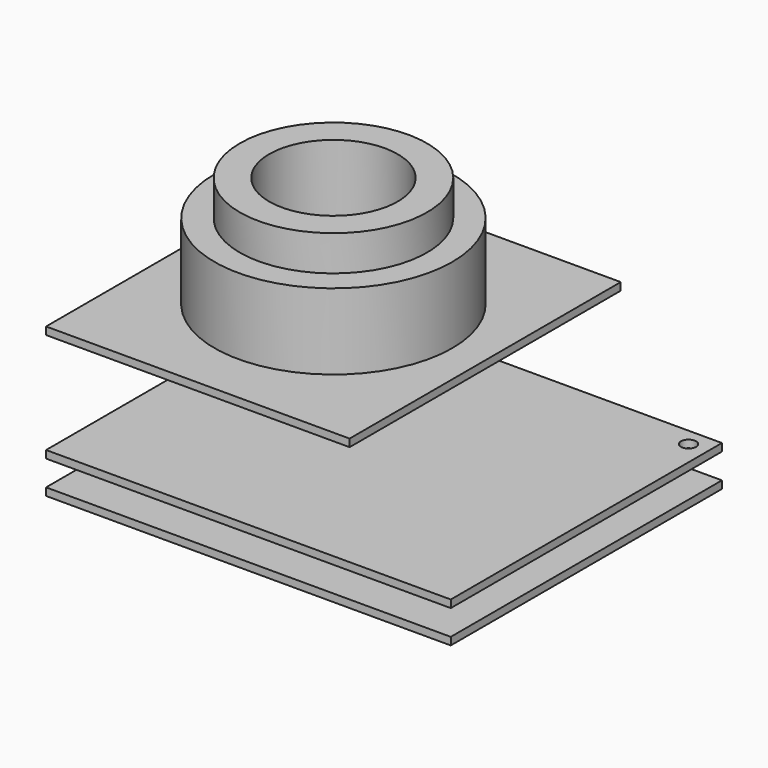
from build123d import *

# Parameters (mm, degrees)
F0_W      = 80
F0_H      = 67
F1_DEPTH  = 1.5
F3_W      = 80
F3_H      = 67
F3_R      = 1.5
F4_DEPTH  = 1.5
F6_W      = 60
F6_H      = 67
F7_DEPTH  = 1.5
F9_DEPTH  = 15
F10_DEPTH = 22


with BuildPart() as f1:
    # F0 (on Top) → F1 (new body)
    with BuildSketch(Plane.XY):
        with Locations((40, 33.5)):
            Rectangle(F0_W, F0_H)
    extrude(amount=F1_DEPTH)


with BuildPart() as f4:
    # F3 (on offset) → F4 (new body)
    with BuildSketch(Plane.XY.offset(6.5)):
        with Locations((40, 33.5)):
            Rectangle(F3_W, F3_H)
        with Locations((76.2, 63.5)):
            Circle(F3_R, mode=Mode.SUBTRACT)
    extrude(amount=F4_DEPTH)


with BuildPart() as f7:
    # F6 (on offset) → F7 (new body)
    with BuildSketch(Plane.XY.offset(28)):
        with Locations((30, 33.5)):
            Rectangle(F6_W, F6_H)
    extrude(amount=F7_DEPTH)


with BuildPart() as f9:
    # F8 (on face) → F9 (new body)
    with BuildSketch(Plane.XY.offset(29.5)):
        with BuildLine():
            ThreePointArc((53.5, 33.5), (30, 57), (6.5, 33.5))
            ThreePointArc((6.5, 33.5), (30, 10), (53.5, 33.5))
        make_face()
        with BuildLine():
            ThreePointArc((48.5, 33.5), (30, 15), (11.5, 33.5))
            ThreePointArc((11.5, 33.5), (30, 52), (48.5, 33.5))
        make_face(mode=Mode.SUBTRACT)
        with BuildLine():
            ThreePointArc((53.5, 33.5), (30, 57), (6.5, 33.5))
            ThreePointArc((6.5, 33.5), (30, 10), (53.5, 33.5))
        make_face()
        with BuildLine():
            ThreePointArc((48.5, 33.5), (30, 15), (11.5, 33.5))
            ThreePointArc((11.5, 33.5), (30, 52), (48.5, 33.5))
        make_face(mode=Mode.SUBTRACT)
    extrude(amount=F9_DEPTH)

    # F8 (on face) → F10 (join)
    with BuildSketch(Plane.XY.offset(29.5)):
        with BuildLine():
            ThreePointArc((48.5, 33.5), (30, 52), (11.5, 33.5))
            ThreePointArc((11.5, 33.5), (30, 15), (48.5, 33.5))
        make_face()
        with BuildLine():
            ThreePointArc((42.7, 33.5), (30, 20.8), (17.3, 33.5))
            ThreePointArc((17.3, 33.5), (30, 46.2), (42.7, 33.5))
        make_face(mode=Mode.SUBTRACT)
    extrude(amount=F10_DEPTH)


solid = Compound([f1.part, f4.part, f7.part, f9.part])
